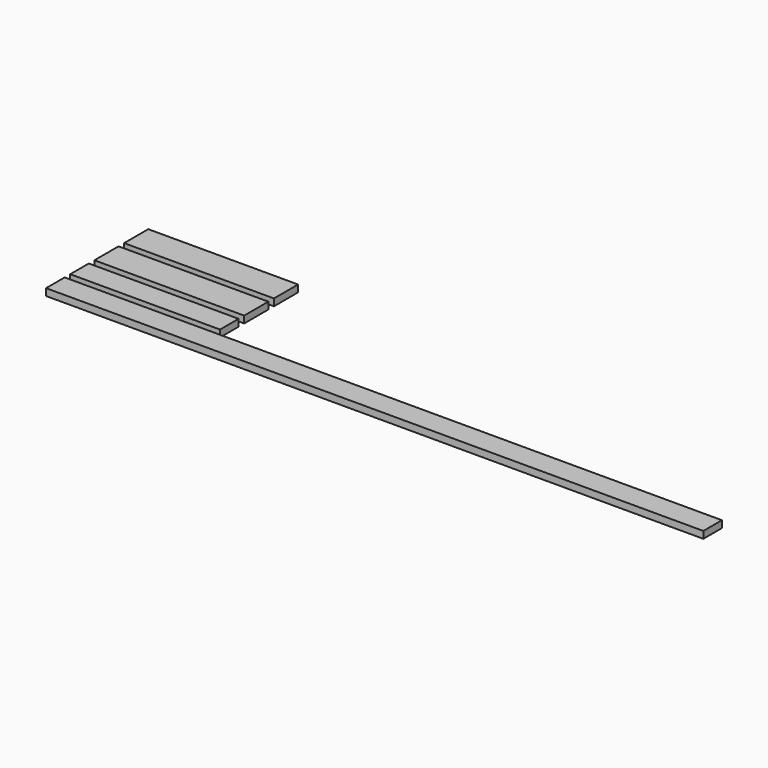
from build123d import *

# Parameters (mm, degrees)
F0_W     = 645
F0_H     = 130
F0_H_2   = 100
F0_W_2   = 2830
F1_DEPTH = 30


with BuildPart() as f1:
    # F0 (on Top) → F1 (new body)
    with BuildSketch(Plane.XY):
        with Locations((322.5, 65)):
            Rectangle(F0_W, F0_H)
        with Locations((322.5, -95)):
            Rectangle(F0_W, F0_H)
        with Locations((322.5, -240)):
            Rectangle(F0_W, F0_H_2)
        with Locations((1415, -370)):
            Rectangle(F0_W_2, F0_H_2)
    extrude(amount=F1_DEPTH)


solid = f1.part
